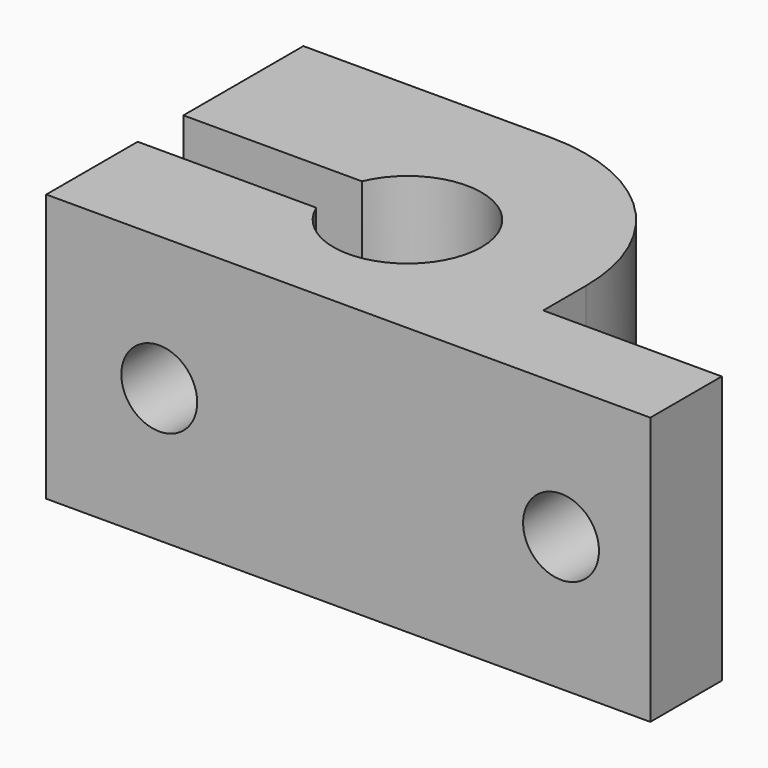
from build123d import *

# Parameters (mm, degrees)
F1_DEPTH = 15
F2_R     = 2.125
F3_DEPTH = 18.001
F4_R     = 3.5
F5_DEPTH = 6


with BuildPart() as f1:
    # F0 (on Top) → F1 (new body)
    with BuildSketch(Plane.XY):
        with BuildLine():
            Line((-13.829164, 6.4), (-13.829164, 0))
            Line((-13.829164, 0), (20, 0))
            Line((20, 0), (20, 5))
            Line((20, 5), (10, 5))
            Line((10, 5), (10, 8))
            ThreePointArc((10, 8), (7.071068, 15.071068), (0, 18))
            Line((0, 18), (-13.829164, 18))
            Line((-13.829164, 18), (-13.829164, 9.6))
            Line((-13.829164, 9.6), (-3.829164, 9.6))
            ThreePointArc((-3.829164, 9.6), (4.15, 8), (-3.829164, 6.4))
            Line((-3.829164, 6.4), (-13.829164, 6.4))
        make_face()
    extrude(amount=F1_DEPTH)

    # F2 (on face) → F3 (cut, through all)
    with BuildSketch(Plane.XZ):
        with Locations((-7.5, 7.5)):
            Circle(F2_R)
        with Locations((15, 7.5)):
            Circle(F2_R)
    extrude(amount=-F3_DEPTH, mode=Mode.SUBTRACT)

    # F4 (on face) → F5 (cut)
    with BuildSketch(Plane(origin=(0, 18, 0), x_dir=(-1, 0, 0), z_dir=(0, 1, 0))):
        with Locations((7.5, 7.5)):
            Circle(F4_R)
    extrude(amount=-F5_DEPTH, mode=Mode.SUBTRACT)


solid = f1.part
